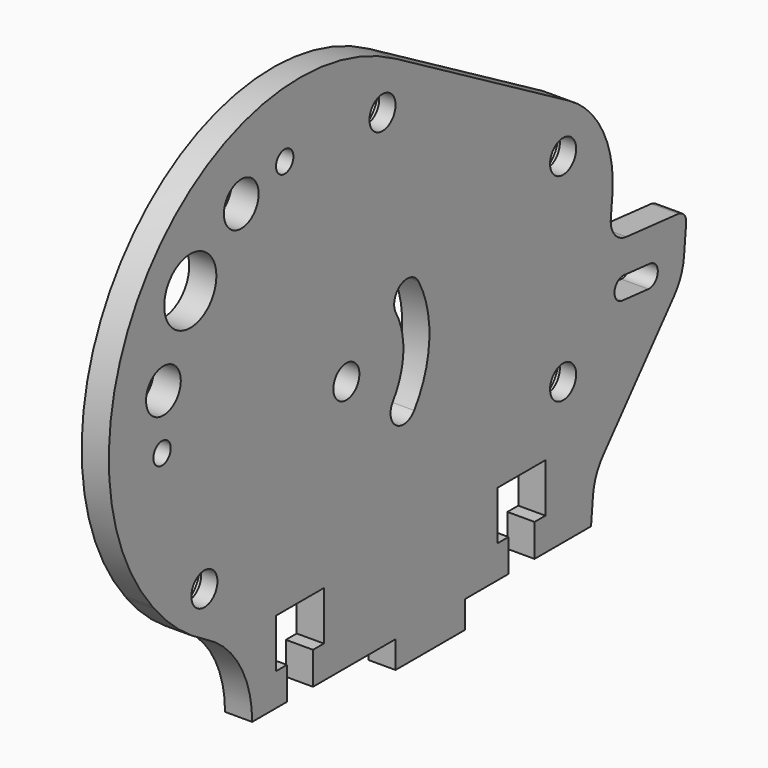
from build123d import *

# Parameters (mm, degrees)
F0_R     = 1.5
F0_R_2   = 1
F0_R_3   = 2
F0_R_4   = 3
F1_DEPTH = 2.5
F2_R     = 2.6
F3_DEPTH = 1


with BuildPart() as f1:
    # F0 (on Right) → F1 (new body)
    with BuildSketch(Plane.YZ):
        with BuildLine():
            ThreePointArc((-24.764499, 8.807669), (-20.91644, 5.130545), (-19.5, 0))
            Line((-19.5, 0), (-15.5, 0))
            Line((-15.5, 0), (-15.5, 3))
            Line((-15.5, 3), (-16.75, 3))
            Line((-16.75, 3), (-16.75, 7.5))
            Line((-16.75, 7.5), (-11.25, 7.5))
            Line((-11.25, 7.5), (-11.25, 3))
            Line((-11.25, 3), (-12.5, 3))
            Line((-12.5, 3), (-12.5, 0))
            Line((-12.5, 0), (-3, 0))
            Line((-3, 0), (-3, -2.5))
            Line((-3, -2.5), (5, -2.5))
            Line((5, -2.5), (5, 0))
            Line((5, 0), (10, 0))
            Line((10, 0), (10, 3))
            Line((10, 3), (8.75, 3))
            Line((8.75, 3), (8.75, 7.5))
            Line((8.75, 7.5), (14.25, 7.5))
            Line((14.25, 7.5), (14.25, 3))
            Line((14.25, 3), (13, 3))
            Line((13, 3), (13, 0))
            Line((13, 0), (19.5, 0))
            Line((19.5, 0), (19.730406, 2.430542))
            ThreePointArc((19.730406, 2.430542), (20.102681, 3.905521), (20.901261, 5.200289))
            Line((20.901261, 5.200289), (29.029949, 14.74632))
            ThreePointArc((29.029949, 14.74632), (29.828529, 16.041087), (30.200804, 17.516067))
            Line((30.200804, 17.516067), (30.450974, 20.155105))
            ThreePointArc((30.450974, 20.155105), (30.22612, 20.886698), (29.549811, 21.245015))
            Line((29.549811, 21.245015), (23.576589, 21.811254))
            ThreePointArc((23.576589, 21.811254), (22.22397, 22.52789), (21.774261, 23.991074))
            Line((21.774261, 23.991074), (21.955369, 25.901569))
            ThreePointArc((21.955369, 25.901569), (20.886782, 31.430613), (17, 35.505553))
            Line((17, 35.505553), (-3, 47.052559))
            ThreePointArc((-3, 47.052559), (-30.769889, 42.239762), (-31.017419, 14.056993))
            Line((-31.017419, 14.056993), (-30.763877, 13.747545))
            ThreePointArc((-30.763877, 13.747545), (-28.006432, 10.983406), (-24.764499, 8.807669))
        make_face()
        with Locations((-25, 13.024149)):
            Circle(F0_R, mode=Mode.SUBTRACT)
        with Locations((-8.660254, 23.185045)):
            Circle(F0_R, mode=Mode.SUBTRACT)
        with BuildLine():
            ThreePointArc((-2.962619, 26.440837), (-2.404462, 28.48741), (-0.357889, 27.929254))
            ThreePointArc((-0.357889, 27.929254), (0.890951, 22.725413), (-0.85181, 17.665537))
            ThreePointArc((-0.85181, 17.665537), (-2.942522, 17.306479), (-3.30158, 19.397191))
            ThreePointArc((-3.30158, 19.397191), (-2.105582, 22.869615), (-2.962619, 26.440837))
        make_face(mode=Mode.SUBTRACT)
        with Locations((16.28461, 13.024149)):
            Circle(F0_R, mode=Mode.SUBTRACT)
        with BuildLine():
            ThreePointArc((23.104724, 16.833569), (22.20356, 17.923479), (23.29347, 18.824643))
            Line((23.29347, 18.824643), (26.280081, 18.541524))
            ThreePointArc((26.280081, 18.541524), (27.181244, 17.451614), (26.091335, 16.55045))
            Line((26.091335, 16.55045), (23.104724, 16.833569))
        make_face(mode=Mode.SUBTRACT)
        with Locations((-29.874508, 26)):
            Circle(F0_R_2, mode=Mode.SUBTRACT)
        with Locations((-29.716234, 31)):
            Circle(F0_R_3, mode=Mode.SUBTRACT)
        with Locations((-26.622516, 37.832197)):
            Circle(F0_R_4, mode=Mode.SUBTRACT)
        with Locations((-20.755296, 42.503999)):
            Circle(F0_R_3, mode=Mode.SUBTRACT)
        with Locations((-4.5, 43.299782)):
            Circle(F0_R, mode=Mode.SUBTRACT)
        with Locations((-15.755296, 43.903425)):
            Circle(F0_R_2, mode=Mode.SUBTRACT)
        with Locations((16.28461, 31.299782)):
            Circle(F0_R, mode=Mode.SUBTRACT)
    extrude(amount=F1_DEPTH)

    # F2 (on face) → F3 (cut)
    with BuildSketch(Plane(origin=(0, 0, 0), x_dir=(0, -1, 0), z_dir=(-1, 0, 0))):
        with Locations((4.5, 43.299782)):
            Circle(F2_R)
        with Locations((-16.28461, 31.299782)):
            Circle(F2_R)
        with Locations((-16.28461, 13.024149)):
            Circle(F2_R)
        with Locations((25, 13.024149)):
            Circle(F2_R)
    extrude(amount=-F3_DEPTH, mode=Mode.SUBTRACT)


solid = f1.part
